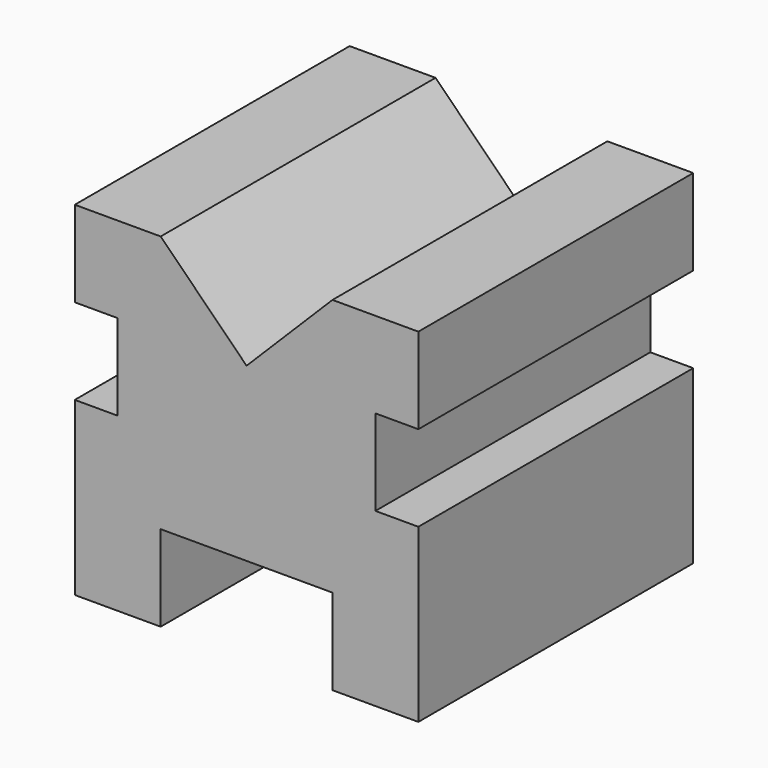
from build123d import *

# Parameters (mm, degrees)
F1_DEPTH = 101.6


with BuildPart() as f1:
    # F0 (on Front) → F1 (new body)
    with BuildSketch(Plane.XZ):
        Polygon((-39.989802, 8.925828), (-39.989802, -41.874172), (-14.589802, -41.874172), (-14.589802, -16.474172), (36.210198, -16.474172), (36.210198, -41.874172), (61.610198, -41.874172), (61.610198, 8.925828), (48.910198, 8.925828), (48.910198, 34.325828), (61.610198, 34.325828), (61.610198, 59.725828), (36.210198, 59.725828), (10.810198, 34.325828), (-14.589802, 59.725828), (-39.989802, 59.725828), (-39.989802, 34.325828), (-27.289802, 34.325828), (-27.289802, 8.925828), align=None)
    extrude(amount=F1_DEPTH)


solid = f1.part
